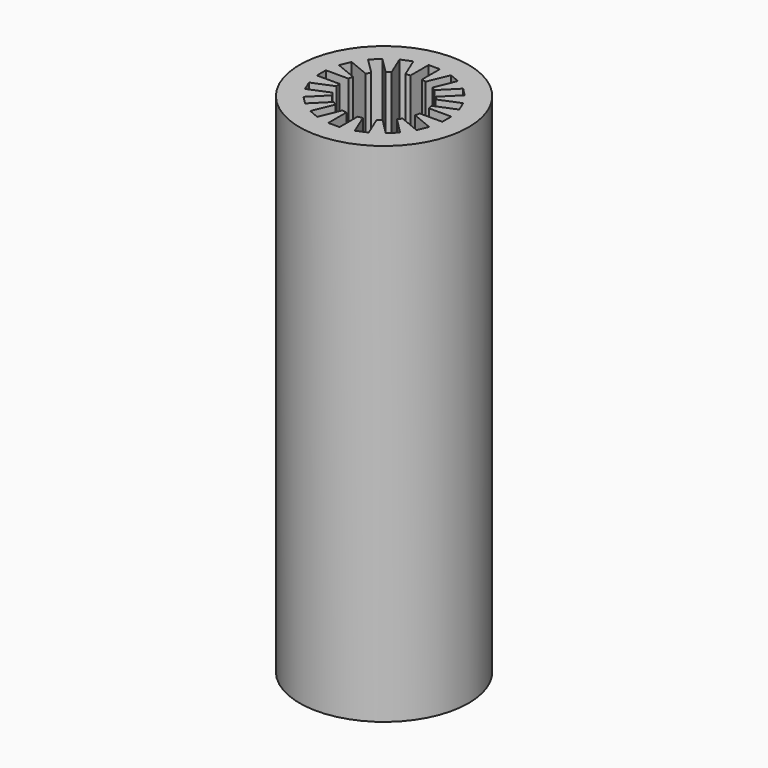
from build123d import *

# Parameters (mm, degrees)
SKETCH_R           = 7.5
SKETCH_R_2         = 3.6
PAD_DEPTH          = 45
SKETCH001_W        = 1
SKETCH001_H        = 2
POCKET_DEPTH       = 45
POLARPATTERN_COUNT = 16


with BuildPart() as part:
    # Sketch → Pad (new body)
    with BuildSketch(Plane.XY):
        Circle(SKETCH_R)
        Circle(SKETCH_R_2, mode=Mode.SUBTRACT)
    extrude(amount=PAD_DEPTH)

    # Sketch001 (on Face4 of Pad) → Pocket (cut)
    with BuildSketch(Plane.XY.offset(45)):
        with Locations((0, 4.565109)):
            Rectangle(SKETCH001_W, SKETCH001_H)
    pocket = extrude(amount=-POCKET_DEPTH, mode=Mode.SUBTRACT)

    # PolarPattern: Pocket ×16 about axis
    polarpattern_axis = Axis((0, 0, 45), (0, 0, 1))
    for i in range(1, POLARPATTERN_COUNT):
        add(pocket.rotate(polarpattern_axis, i * 360 / POLARPATTERN_COUNT), mode=Mode.SUBTRACT)


solid = part.part
